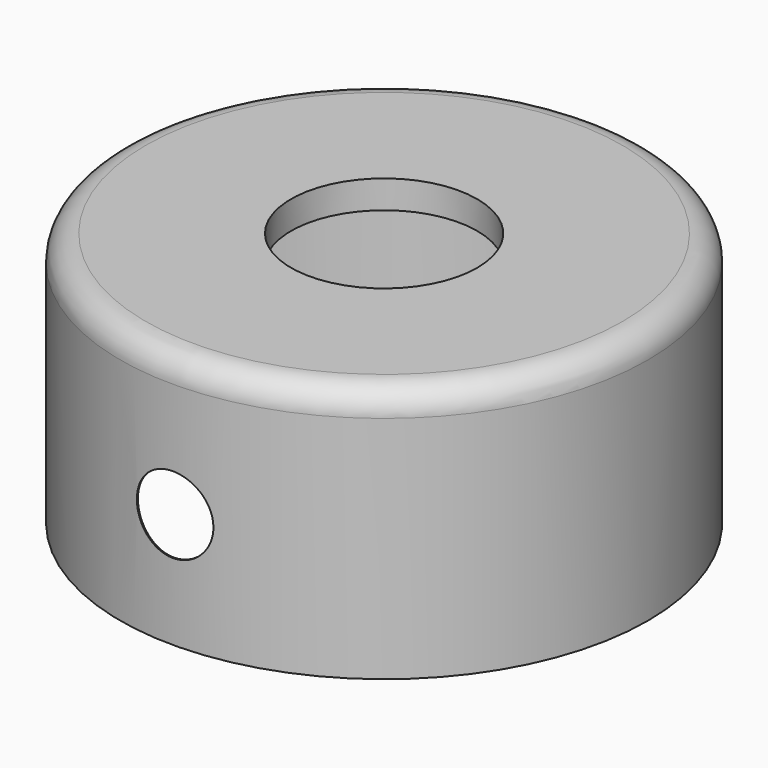
from build123d import *

# Parameters (mm, degrees)
F0_R     = 10.35
F1_DEPTH = 10
F2_R     = 1
F3_R     = 3.65
F4_DEPTH = 25
F5_R     = 10.3
F6_DEPTH = 8.9
F8_DEPTH = 12.5


with BuildPart() as f1:
    # F0 (on Top) → F1 (new body)
    with BuildSketch(Plane.XY):
        Circle(F0_R)
    extrude(amount=F1_DEPTH)

    # F2
    f2_edges = [f1.edges().sort_by_distance(p)[0] for p in [
        (-10.35, 0, 10),
    ]]
    fillet(f2_edges, radius=F2_R)

    # F3 (on face) → F4 (cut)
    with BuildSketch(Plane.XY.offset(10)):
        Circle(F3_R)
    extrude(amount=-F4_DEPTH, mode=Mode.SUBTRACT)

    # F5 (on face) → F6 (cut)
    with BuildSketch(Plane(origin=(0, 0, 0), x_dir=(1, 0, 0), z_dir=(0, 0, -1))):
        Circle(F5_R)
    extrude(amount=-F6_DEPTH, mode=Mode.SUBTRACT)

    # F7 (on Front) → F8 (cut, symmetric)
    with BuildSketch(Plane.XZ):
        with BuildLine():
            ThreePointArc((0, 3), (1.06066, 3.43934), (1.5, 4.5))
            ThreePointArc((1.5, 4.5), (-1.06066, 5.56066), (0, 3))
        make_face()
    extrude(amount=F8_DEPTH, both=True, mode=Mode.SUBTRACT)


solid = f1.part
